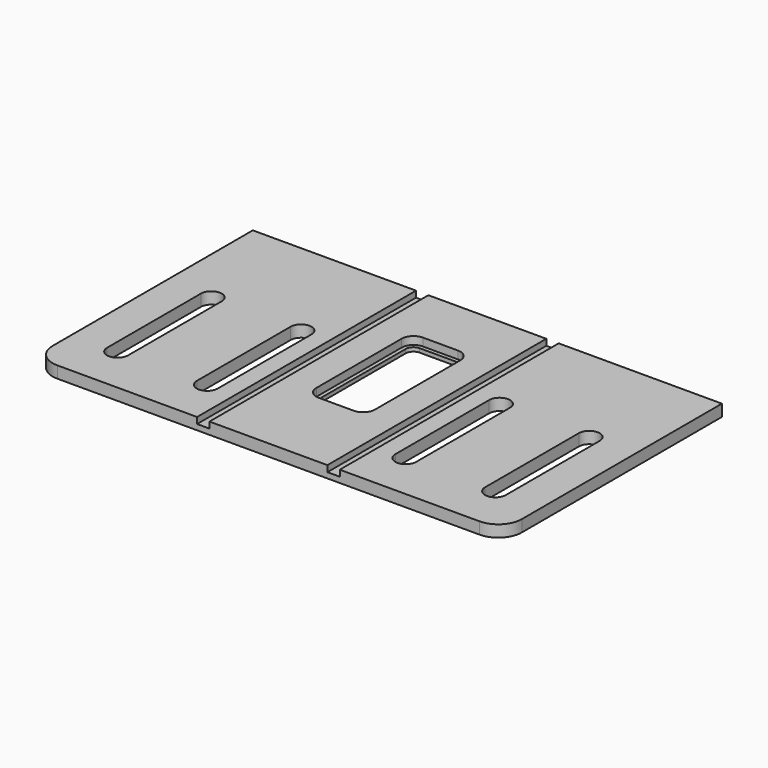
from build123d import *

# Parameters (mm, degrees)
PAD001_DEPTH    = 18
POCKET001_DEPTH = 18
SKETCH004_W     = 19
SKETCH004_H     = 420
POCKET002_DEPTH = 9.5
POCKET004_DEPTH = 12


with BuildPart() as part:
    # Sketch002 → Pad001 (new body)
    with BuildSketch(Plane.XY):
        with BuildLine():
            Line((-360, 420), (360, 420))
            Line((360, 420), (360, 36))
            ThreePointArc((324, 0), (349.455844, 10.544156), (360, 36))
            Line((324, 0), (-324, 0))
            ThreePointArc((-360, 36), (-349.455844, 10.544156), (-324, 0))
            Line((-360, 36), (-360, 420))
        make_face()
    extrude(amount=PAD001_DEPTH)

    # Sketch003 (on Face8 of Pad001) → Pocket001 (cut)
    with BuildSketch(Plane.XY.offset(18)):
        with BuildLine():
            ThreePointArc((-274, 253), (-290, 269), (-306, 253))
            Line((-306, 253), (-306, 73))
            ThreePointArc((-306, 73), (-290, 57), (-274, 73))
            Line((-274, 73), (-274, 253))
        make_face()
        with BuildLine():
            ThreePointArc((-136.333333, 253), (-152.333333, 269), (-168.333333, 253))
            Line((-168.333333, 253), (-168.333333, 73))
            ThreePointArc((-168.333333, 73), (-152.333333, 57), (-136.333333, 73))
            Line((-136.333333, 73), (-136.333333, 253))
        make_face()
        with BuildLine():
            ThreePointArc((306, 253), (290, 269), (274, 253))
            Line((274, 73), (274, 253))
            ThreePointArc((274, 73), (290, 57), (306, 73))
            Line((306, 253), (306, 73))
        make_face()
        with BuildLine():
            ThreePointArc((168.333333, 253), (152.333333, 269), (136.333333, 253))
            Line((136.333333, 73), (136.333333, 253))
            ThreePointArc((136.333333, 73), (152.333333, 57), (168.333333, 73))
            Line((168.333333, 253), (168.333333, 73))
        make_face()
        with BuildLine():
            Line((-27, 324), (27, 324))
            ThreePointArc((39, 312), (35.485281, 320.485281), (27, 324))
            Line((39, 312), (39, 148))
            ThreePointArc((27, 136), (35.485281, 139.514719), (39, 148))
            Line((27, 136), (-27, 136))
            ThreePointArc((-39, 148), (-35.485281, 139.514719), (-27, 136))
            Line((-39, 148), (-39, 312))
            ThreePointArc((-27, 324), (-35.485281, 320.485281), (-39, 312))
        make_face()
    extrude(amount=-POCKET001_DEPTH, mode=Mode.SUBTRACT)

    # Sketch004 (on Face5 of Pocket001) → Pocket002 (cut)
    with BuildSketch(Plane.XY.offset(18)):
        with Locations((-100, 210)):
            Rectangle(SKETCH004_W, SKETCH004_H)
        with Locations((100, 210)):
            Rectangle(SKETCH004_W, SKETCH004_H)
    extrude(amount=-POCKET002_DEPTH, mode=Mode.SUBTRACT)

    # Sketch007 (on Face12 of Pocket002) → Pocket004 (cut)
    with BuildSketch(Plane.XY.offset(18)):
        with BuildLine():
            Line((-27, 330), (27, 330))
            ThreePointArc((45, 312), (39.727922, 324.727922), (27, 330))
            Line((45, 312), (45, 148))
            ThreePointArc((27, 130), (39.727922, 135.272078), (45, 148))
            Line((27, 130), (-27, 130))
            ThreePointArc((-45, 148), (-39.727922, 135.272078), (-27, 130))
            Line((-45, 148), (-45, 312))
            ThreePointArc((-27, 330), (-39.727922, 324.727922), (-45, 312))
        make_face()
    extrude(amount=-POCKET004_DEPTH, mode=Mode.SUBTRACT)


with BuildPart() as part_1:
    # Body001 placement: moved
    add(part.part.moved(Location((0, 0, 18))))


solid = part_1.part
